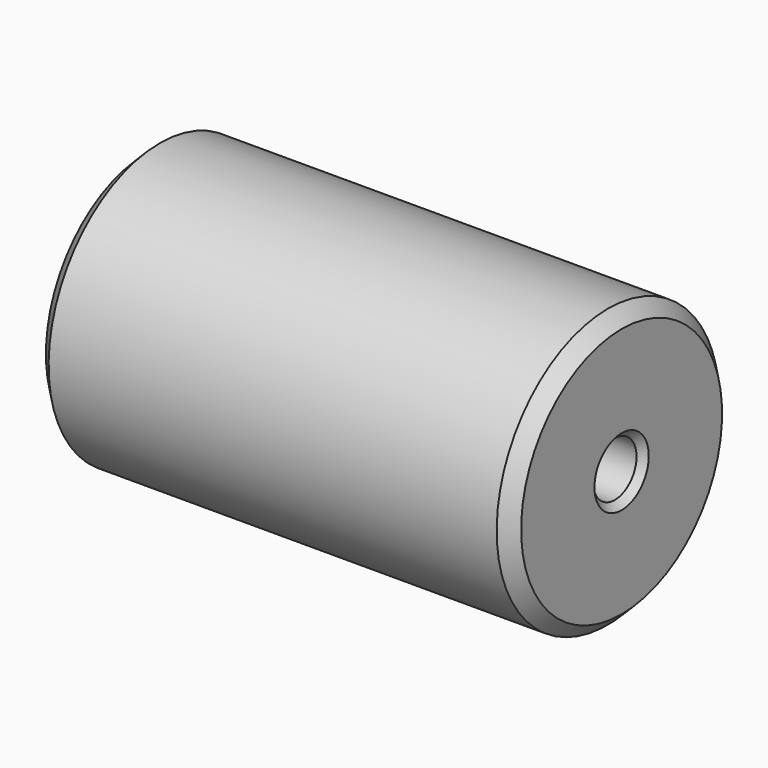
from build123d import *

# Parameters (mm, degrees)
F2_SIZE = 2
F3_SIZE = 1


with BuildPart() as f1:
    # F0 (on Front) → F1 (revolve)
    with BuildSketch(Plane.XZ):
        Polygon((0, 13.5), (0, 4), (20, 4), (20, 20.5), (-50, 20.5), (-50, 13.5), (-3, 13.5), (-3, 16.5), (0, 16.5), align=None)
    revolve(axis=Axis((-15.148313, 0, 0), (-1, 0, 0)))

    # F2
    f2_edges = [f1.edges().sort_by_distance(p)[0] for p in [
        (-50, 0, -20.5),
        (20, 0, -20.5),
    ]]
    chamfer(f2_edges, length=F2_SIZE)

    # F3
    f3_edges = [f1.edges().sort_by_distance(p)[0] for p in [
        (-50, 0, -13.5),
        (20, 0, -4),
    ]]
    chamfer(f3_edges, length=F3_SIZE)


solid = f1.part
